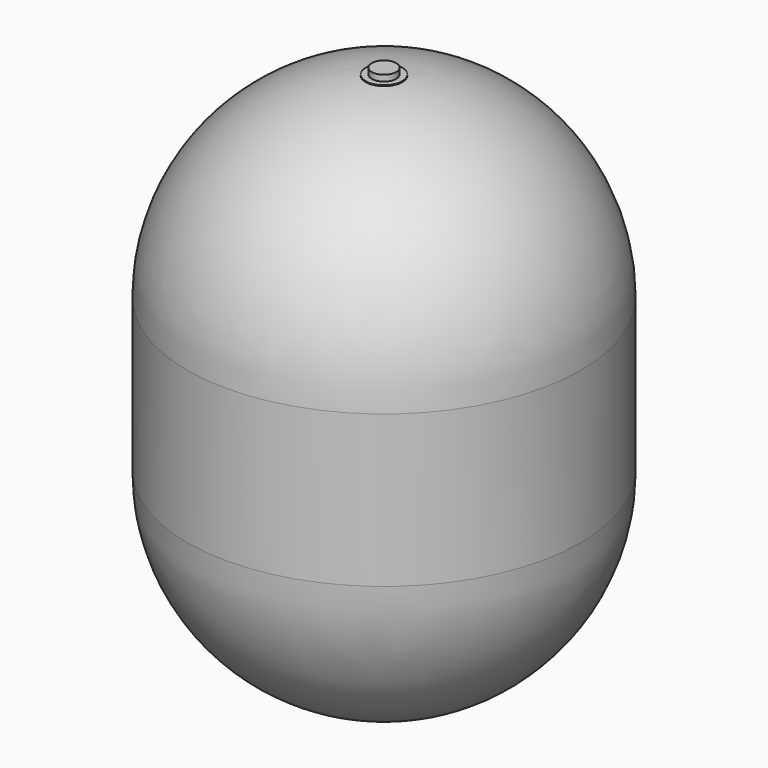
from build123d import *


with BuildPart() as f1:
    # F0 (on Front) → F1 (revolve)
    with BuildSketch(Plane.XZ):
        with BuildLine():
            Line((75, 0), (75, 3.488347))
            ThreePointArc((75, 3.488347), (597.270458, 263.819883), (808, 808))
            Line((808, 808), (808, 1432))
            ThreePointArc((808, 1432), (597.270458, 1976.180117), (75, 2236.511653))
            Line((75, 2236.511653), (75, 2240))
            Line((75, 2240), (50, 2240))
            Line((50, 2240), (50, 2265))
            Line((50, 2265), (0, 2265))
            Line((0, 2265), (0, 2240))
            Line((0, 2240), (0, 0))
            Line((0, 0), (0, -25))
            Line((0, -25), (50, -25))
            Line((50, -25), (50, 0))
            Line((50, 0), (75, 0))
        make_face()
    revolve(axis=Axis((0, 0, 1120), (0, 0, -1)))


solid = f1.part
